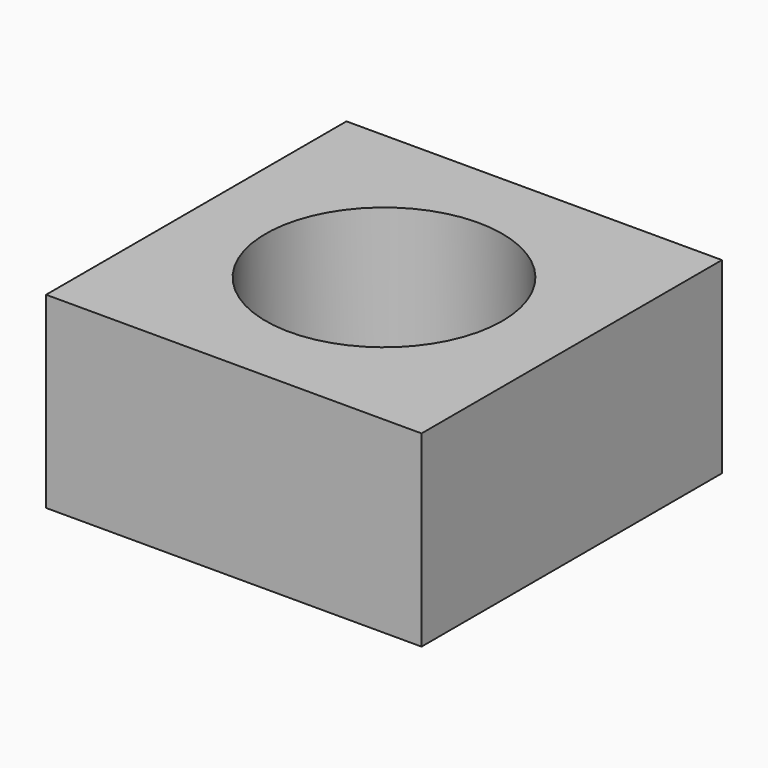
from build123d import *

# Parameters (mm, degrees)
CYLINDER039_R     = 4
CYLINDER039_DEPTH = 10
BOX018_W          = 12.7
BOX018_H          = 12.7
BOX018_DEPTH      = 6.35


with BuildPart() as cylinder039:
    # Cylinder039 → Cylinder039 (new body)
    with BuildSketch(Plane(origin=(6.35, 6.35, 0), x_dir=(1, 0, 0), z_dir=(0, 0, 1))):
        Circle(CYLINDER039_R)
    extrude(amount=CYLINDER039_DEPTH)


with BuildPart() as m8_nut005:
    # Box018 → Box018 (new body)
    with BuildSketch(Plane.XY):
        with Locations((6.35, 6.35)):
            Rectangle(BOX018_W, BOX018_H)
    extrude(amount=BOX018_DEPTH)

    # Cut016: cut Cylinder039
    add(cylinder039.part, mode=Mode.SUBTRACT)


with BuildPart() as m8_nut005_1:
    # Cut016 placement: moved
    add(m8_nut005.part.moved(Location((12.7, -6.35, 908.05))))


solid = m8_nut005_1.part
